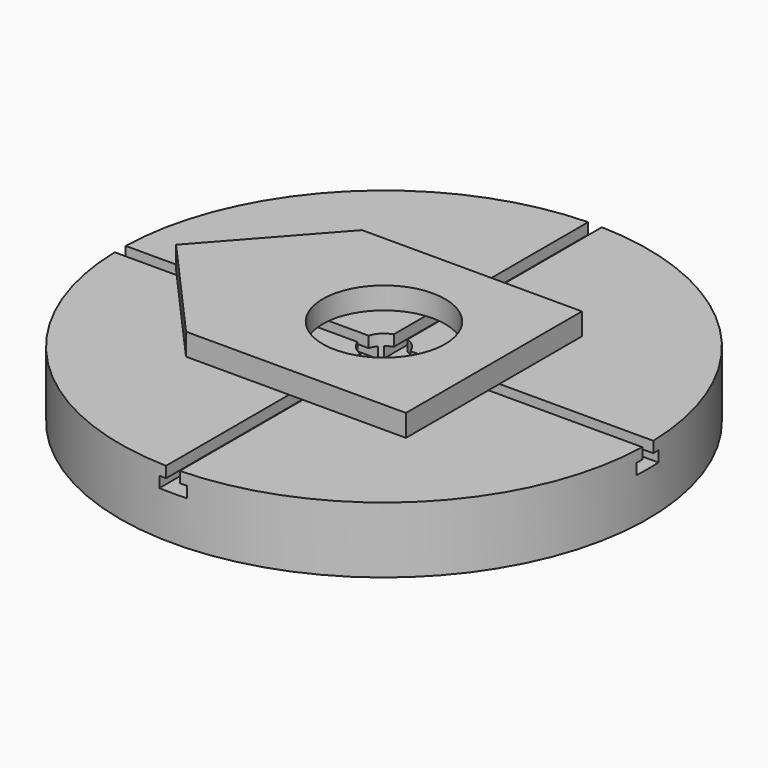
from build123d import *

# Parameters (mm, degrees)
F0_R          = 304.8
F0_R_2        = 25.4
F1_DEPTH      = 76.2
F3_DEPTH      = 304.801
F3_DEPTH_BACK = 304.801
F4_COUNT      = 2
F4_ANGLE      = 90
F6_W          = 254
F6_H          = 254
F6_R          = 70.594601
F7_DEPTH      = 25.4
F8_ANGLE      = 90


with BuildPart() as f1:
    # F0 (on Top) → F1 (new body)
    with BuildSketch(Plane.XY):
        Circle(F0_R)
        Circle(F0_R_2, mode=Mode.SUBTRACT)
    extrude(amount=F1_DEPTH)


with BuildPart() as f3:
    # F2 (on Front) → F3 (new body, two sides)
    with BuildSketch(Plane.XZ) as f3_sk:
        Polygon((7.9375, 76.2), (-7.9375, 76.2), (-7.9375, 63.5), (-15.875, 63.5), (-15.875, 50.8), (15.875, 50.8), (15.875, 63.5), (7.9375, 63.5), align=None)
    extrude(amount=F3_DEPTH)
    extrude(f3_sk.sketch, amount=-F3_DEPTH_BACK)


with BuildPart() as f4_1:
    # F4: instance of F3
    add(f3.part.rotate(Axis((0, 0, 58.865096), (0, 0, 1)), 1 * F4_ANGLE / (F4_COUNT - 1)))


with BuildPart() as f1_1:
    add(f1.part)

    # F5: cut F4_1, F3
    add(f4_1.part, mode=Mode.SUBTRACT)
    add(f3.part, mode=Mode.SUBTRACT)


with BuildPart() as f7:
    # F6 (on face) → F7 (new body)
    with BuildSketch(Plane.XY.offset(76.2)):
        Rectangle(F6_W, F6_H)
        Circle(F6_R, mode=Mode.SUBTRACT)
        Rectangle(F6_W, F6_H)
        Circle(F6_R, mode=Mode.SUBTRACT)
        Polygon((0, 240.081295), (-127, 127), (127, 127), align=None)
        Polygon((0, 240.081295), (-127, 127), (127, 127), align=None)
    extrude(amount=F7_DEPTH)


with BuildPart() as f1_2:
    # F8: moved
    add(f1_1.part.rotate(Axis((0, 0, 58.865096), (0, 0, 1)), F8_ANGLE))


with BuildPart() as f7_1:
    # F8: moved
    add(f7.part.rotate(Axis((0, 0, 58.865096), (0, 0, 1)), F8_ANGLE))


solid = Compound([f1_2.part, f7_1.part])
